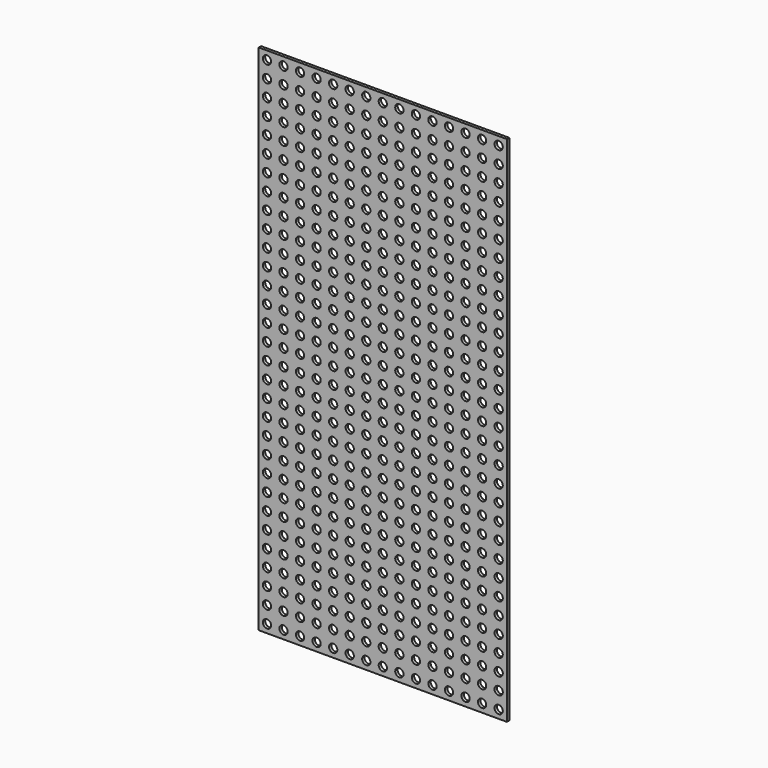
from build123d import *

# Parameters (mm, degrees)
F0_W     = 190.5
F0_H     = 393.7
F1_DEPTH = 2.286
F2_R     = 3.175
F3_DEPTH = 2.287


with BuildPart() as f1:
    # F0 (on Front) → F1 (new body)
    with BuildSketch(Plane.XZ):
        Rectangle(F0_W, F0_H)
    extrude(amount=F1_DEPTH)

    # F2 (on face) → F3 (cut, through all)
    with BuildSketch(Plane.XZ.offset(2.286)):
        with Locations((-88.9, 190.5)):
            Circle(F2_R)
        with Locations((-88.9, 177.8)):
            Circle(F2_R)
        with Locations((-76.2, 190.5)):
            Circle(F2_R)
        with Locations((-76.2, 177.8)):
            Circle(F2_R)
        with Locations((-63.5, 190.5)):
            Circle(F2_R)
        with Locations((-63.5, 177.8)):
            Circle(F2_R)
        with Locations((-50.8, 190.5)):
            Circle(F2_R)
        with Locations((-50.8, 177.8)):
            Circle(F2_R)
        with Locations((-38.1, 190.5)):
            Circle(F2_R)
        with Locations((-38.1, 177.8)):
            Circle(F2_R)
        with Locations((-25.4, 190.5)):
            Circle(F2_R)
        with Locations((-25.4, 177.8)):
            Circle(F2_R)
        with Locations((-12.7, 190.5)):
            Circle(F2_R)
        with Locations((-12.7, 177.8)):
            Circle(F2_R)
        with Locations((0, 190.5)):
            Circle(F2_R)
        with Locations((0, 177.8)):
            Circle(F2_R)
        with Locations((12.7, 190.5)):
            Circle(F2_R)
        with Locations((12.7, 177.8)):
            Circle(F2_R)
        with Locations((25.4, 190.5)):
            Circle(F2_R)
        with Locations((25.4, 177.8)):
            Circle(F2_R)
        with Locations((38.1, 190.5)):
            Circle(F2_R)
        with Locations((38.1, 177.8)):
            Circle(F2_R)
        with Locations((50.8, 190.5)):
            Circle(F2_R)
        with Locations((50.8, 177.8)):
            Circle(F2_R)
        with Locations((63.5, 190.5)):
            Circle(F2_R)
        with Locations((63.5, 177.8)):
            Circle(F2_R)
        with Locations((76.2, 190.5)):
            Circle(F2_R)
        with Locations((76.2, 177.8)):
            Circle(F2_R)
        with Locations((-88.9, 165.1)):
            Circle(F2_R)
        with Locations((-88.9, 152.4)):
            Circle(F2_R)
        with Locations((-88.9, 139.7)):
            Circle(F2_R)
        with Locations((-88.9, 127)):
            Circle(F2_R)
        with Locations((-88.9, 114.3)):
            Circle(F2_R)
        with Locations((-88.9, 101.6)):
            Circle(F2_R)
        with Locations((-88.9, 88.9)):
            Circle(F2_R)
        with Locations((-88.9, 76.2)):
            Circle(F2_R)
        with Locations((-88.9, 63.5)):
            Circle(F2_R)
        with Locations((-88.9, 50.8)):
            Circle(F2_R)
        with Locations((-88.9, 38.1)):
            Circle(F2_R)
        with Locations((-88.9, 25.4)):
            Circle(F2_R)
        with Locations((-88.9, 12.7)):
            Circle(F2_R)
        with Locations((-88.9, 0)):
            Circle(F2_R)
        with Locations((-88.9, -12.7)):
            Circle(F2_R)
        with Locations((-88.9, -25.4)):
            Circle(F2_R)
        with Locations((-88.9, -38.1)):
            Circle(F2_R)
        with Locations((-88.9, -50.8)):
            Circle(F2_R)
        with Locations((-88.9, -63.5)):
            Circle(F2_R)
        with Locations((-88.9, -76.2)):
            Circle(F2_R)
        with Locations((-88.9, -88.9)):
            Circle(F2_R)
        with Locations((-88.9, -101.6)):
            Circle(F2_R)
        with Locations((-88.9, -114.3)):
            Circle(F2_R)
        with Locations((-88.9, -127)):
            Circle(F2_R)
        with Locations((-88.9, -139.7)):
            Circle(F2_R)
        with Locations((-88.9, -152.4)):
            Circle(F2_R)
        with Locations((-88.9, -165.1)):
            Circle(F2_R)
        with Locations((-88.9, -177.8)):
            Circle(F2_R)
        with Locations((-76.2, 165.1)):
            Circle(F2_R)
        with Locations((-76.2, 152.4)):
            Circle(F2_R)
        with Locations((-76.2, 139.7)):
            Circle(F2_R)
        with Locations((-76.2, 127)):
            Circle(F2_R)
        with Locations((-76.2, 114.3)):
            Circle(F2_R)
        with Locations((-76.2, 101.6)):
            Circle(F2_R)
        with Locations((-76.2, 88.9)):
            Circle(F2_R)
        with Locations((-76.2, 76.2)):
            Circle(F2_R)
        with Locations((-76.2, 63.5)):
            Circle(F2_R)
        with Locations((-76.2, 50.8)):
            Circle(F2_R)
        with Locations((-76.2, 38.1)):
            Circle(F2_R)
        with Locations((-76.2, 25.4)):
            Circle(F2_R)
        with Locations((-76.2, 12.7)):
            Circle(F2_R)
        with Locations((-76.2, 0)):
            Circle(F2_R)
        with Locations((-76.2, -12.7)):
            Circle(F2_R)
        with Locations((-76.2, -25.4)):
            Circle(F2_R)
        with Locations((-76.2, -38.1)):
            Circle(F2_R)
        with Locations((-76.2, -50.8)):
            Circle(F2_R)
        with Locations((-76.2, -63.5)):
            Circle(F2_R)
        with Locations((-76.2, -76.2)):
            Circle(F2_R)
        with Locations((-76.2, -88.9)):
            Circle(F2_R)
        with Locations((-76.2, -101.6)):
            Circle(F2_R)
        with Locations((-76.2, -114.3)):
            Circle(F2_R)
        with Locations((-76.2, -127)):
            Circle(F2_R)
        with Locations((-76.2, -139.7)):
            Circle(F2_R)
        with Locations((-76.2, -152.4)):
            Circle(F2_R)
        with Locations((-76.2, -165.1)):
            Circle(F2_R)
        with Locations((-76.2, -177.8)):
            Circle(F2_R)
        with Locations((-63.5, 165.1)):
            Circle(F2_R)
        with Locations((-63.5, 152.4)):
            Circle(F2_R)
        with Locations((-63.5, 139.7)):
            Circle(F2_R)
        with Locations((-63.5, 127)):
            Circle(F2_R)
        with Locations((-63.5, 114.3)):
            Circle(F2_R)
        with Locations((-63.5, 101.6)):
            Circle(F2_R)
        with Locations((-63.5, 88.9)):
            Circle(F2_R)
        with Locations((-63.5, 76.2)):
            Circle(F2_R)
        with Locations((-63.5, 63.5)):
            Circle(F2_R)
        with Locations((-63.5, 50.8)):
            Circle(F2_R)
        with Locations((-63.5, 38.1)):
            Circle(F2_R)
        with Locations((-63.5, 25.4)):
            Circle(F2_R)
        with Locations((-63.5, 12.7)):
            Circle(F2_R)
        with Locations((-63.5, 0)):
            Circle(F2_R)
        with Locations((-63.5, -12.7)):
            Circle(F2_R)
        with Locations((-63.5, -25.4)):
            Circle(F2_R)
        with Locations((-63.5, -38.1)):
            Circle(F2_R)
        with Locations((-63.5, -50.8)):
            Circle(F2_R)
        with Locations((-63.5, -63.5)):
            Circle(F2_R)
        with Locations((-63.5, -76.2)):
            Circle(F2_R)
        with Locations((-63.5, -88.9)):
            Circle(F2_R)
        with Locations((-63.5, -101.6)):
            Circle(F2_R)
        with Locations((-63.5, -114.3)):
            Circle(F2_R)
        with Locations((-63.5, -127)):
            Circle(F2_R)
        with Locations((-63.5, -139.7)):
            Circle(F2_R)
        with Locations((-63.5, -152.4)):
            Circle(F2_R)
        with Locations((-63.5, -165.1)):
            Circle(F2_R)
        with Locations((-63.5, -177.8)):
            Circle(F2_R)
        with Locations((-50.8, 165.1)):
            Circle(F2_R)
        with Locations((-50.8, 152.4)):
            Circle(F2_R)
        with Locations((-50.8, 139.7)):
            Circle(F2_R)
        with Locations((-50.8, 127)):
            Circle(F2_R)
        with Locations((-50.8, 114.3)):
            Circle(F2_R)
        with Locations((-50.8, 101.6)):
            Circle(F2_R)
        with Locations((-50.8, 88.9)):
            Circle(F2_R)
        with Locations((-50.8, 76.2)):
            Circle(F2_R)
        with Locations((-50.8, 63.5)):
            Circle(F2_R)
        with Locations((-50.8, 50.8)):
            Circle(F2_R)
        with Locations((-50.8, 38.1)):
            Circle(F2_R)
        with Locations((-50.8, 25.4)):
            Circle(F2_R)
        with Locations((-50.8, 12.7)):
            Circle(F2_R)
        with Locations((-50.8, 0)):
            Circle(F2_R)
        with Locations((-50.8, -12.7)):
            Circle(F2_R)
        with Locations((-50.8, -25.4)):
            Circle(F2_R)
        with Locations((-50.8, -38.1)):
            Circle(F2_R)
        with Locations((-50.8, -50.8)):
            Circle(F2_R)
        with Locations((-50.8, -63.5)):
            Circle(F2_R)
        with Locations((-50.8, -76.2)):
            Circle(F2_R)
        with Locations((-50.8, -88.9)):
            Circle(F2_R)
        with Locations((-50.8, -101.6)):
            Circle(F2_R)
        with Locations((-50.8, -114.3)):
            Circle(F2_R)
        with Locations((-50.8, -127)):
            Circle(F2_R)
        with Locations((-50.8, -139.7)):
            Circle(F2_R)
        with Locations((-50.8, -152.4)):
            Circle(F2_R)
        with Locations((-50.8, -165.1)):
            Circle(F2_R)
        with Locations((-50.8, -177.8)):
            Circle(F2_R)
        with Locations((-38.1, 165.1)):
            Circle(F2_R)
        with Locations((-38.1, 152.4)):
            Circle(F2_R)
        with Locations((-38.1, 139.7)):
            Circle(F2_R)
        with Locations((-38.1, 127)):
            Circle(F2_R)
        with Locations((-38.1, 114.3)):
            Circle(F2_R)
        with Locations((-38.1, 101.6)):
            Circle(F2_R)
        with Locations((-38.1, 88.9)):
            Circle(F2_R)
        with Locations((-38.1, 76.2)):
            Circle(F2_R)
        with Locations((-38.1, 63.5)):
            Circle(F2_R)
        with Locations((-38.1, 50.8)):
            Circle(F2_R)
        with Locations((-38.1, 38.1)):
            Circle(F2_R)
        with Locations((-38.1, 25.4)):
            Circle(F2_R)
        with Locations((-38.1, 12.7)):
            Circle(F2_R)
        with Locations((-38.1, 0)):
            Circle(F2_R)
        with Locations((-38.1, -12.7)):
            Circle(F2_R)
        with Locations((-38.1, -25.4)):
            Circle(F2_R)
        with Locations((-38.1, -38.1)):
            Circle(F2_R)
        with Locations((-38.1, -50.8)):
            Circle(F2_R)
        with Locations((-38.1, -63.5)):
            Circle(F2_R)
        with Locations((-38.1, -76.2)):
            Circle(F2_R)
        with Locations((-38.1, -88.9)):
            Circle(F2_R)
        with Locations((-38.1, -101.6)):
            Circle(F2_R)
        with Locations((-38.1, -114.3)):
            Circle(F2_R)
        with Locations((-38.1, -127)):
            Circle(F2_R)
        with Locations((-38.1, -139.7)):
            Circle(F2_R)
        with Locations((-38.1, -152.4)):
            Circle(F2_R)
        with Locations((-38.1, -165.1)):
            Circle(F2_R)
        with Locations((-38.1, -177.8)):
            Circle(F2_R)
        with Locations((-25.4, 165.1)):
            Circle(F2_R)
        with Locations((-25.4, 152.4)):
            Circle(F2_R)
        with Locations((-25.4, 139.7)):
            Circle(F2_R)
        with Locations((-25.4, 127)):
            Circle(F2_R)
        with Locations((-25.4, 114.3)):
            Circle(F2_R)
        with Locations((-25.4, 101.6)):
            Circle(F2_R)
        with Locations((-25.4, 88.9)):
            Circle(F2_R)
        with Locations((-25.4, 76.2)):
            Circle(F2_R)
        with Locations((-25.4, 63.5)):
            Circle(F2_R)
        with Locations((-25.4, 50.8)):
            Circle(F2_R)
        with Locations((-25.4, 38.1)):
            Circle(F2_R)
        with Locations((-25.4, 25.4)):
            Circle(F2_R)
        with Locations((-25.4, 12.7)):
            Circle(F2_R)
        with Locations((-25.4, 0)):
            Circle(F2_R)
        with Locations((-25.4, -12.7)):
            Circle(F2_R)
        with Locations((-25.4, -25.4)):
            Circle(F2_R)
        with Locations((-25.4, -38.1)):
            Circle(F2_R)
        with Locations((-25.4, -50.8)):
            Circle(F2_R)
        with Locations((-25.4, -63.5)):
            Circle(F2_R)
        with Locations((-25.4, -76.2)):
            Circle(F2_R)
        with Locations((-25.4, -88.9)):
            Circle(F2_R)
        with Locations((-25.4, -101.6)):
            Circle(F2_R)
        with Locations((-25.4, -114.3)):
            Circle(F2_R)
        with Locations((-25.4, -127)):
            Circle(F2_R)
        with Locations((-25.4, -139.7)):
            Circle(F2_R)
        with Locations((-25.4, -152.4)):
            Circle(F2_R)
        with Locations((-25.4, -165.1)):
            Circle(F2_R)
        with Locations((-25.4, -177.8)):
            Circle(F2_R)
        with Locations((-12.7, 165.1)):
            Circle(F2_R)
        with Locations((-12.7, 152.4)):
            Circle(F2_R)
        with Locations((-12.7, 139.7)):
            Circle(F2_R)
        with Locations((-12.7, 127)):
            Circle(F2_R)
        with Locations((-12.7, 114.3)):
            Circle(F2_R)
        with Locations((-12.7, 101.6)):
            Circle(F2_R)
        with Locations((-12.7, 88.9)):
            Circle(F2_R)
        with Locations((-12.7, 76.2)):
            Circle(F2_R)
        with Locations((-12.7, 63.5)):
            Circle(F2_R)
        with Locations((-12.7, 50.8)):
            Circle(F2_R)
        with Locations((-12.7, 38.1)):
            Circle(F2_R)
        with Locations((-12.7, 25.4)):
            Circle(F2_R)
        with Locations((-12.7, 12.7)):
            Circle(F2_R)
        with Locations((-12.7, 0)):
            Circle(F2_R)
        with Locations((-12.7, -12.7)):
            Circle(F2_R)
        with Locations((-12.7, -25.4)):
            Circle(F2_R)
        with Locations((-12.7, -38.1)):
            Circle(F2_R)
        with Locations((-12.7, -50.8)):
            Circle(F2_R)
        with Locations((-12.7, -63.5)):
            Circle(F2_R)
        with Locations((-12.7, -76.2)):
            Circle(F2_R)
        with Locations((-12.7, -88.9)):
            Circle(F2_R)
        with Locations((-12.7, -101.6)):
            Circle(F2_R)
        with Locations((-12.7, -114.3)):
            Circle(F2_R)
        with Locations((-12.7, -127)):
            Circle(F2_R)
        with Locations((-12.7, -139.7)):
            Circle(F2_R)
        with Locations((-12.7, -152.4)):
            Circle(F2_R)
        with Locations((-12.7, -165.1)):
            Circle(F2_R)
        with Locations((-12.7, -177.8)):
            Circle(F2_R)
        with Locations((0, 165.1)):
            Circle(F2_R)
        with Locations((0, 152.4)):
            Circle(F2_R)
        with Locations((0, 139.7)):
            Circle(F2_R)
        with Locations((0, 127)):
            Circle(F2_R)
        with Locations((0, 114.3)):
            Circle(F2_R)
        with Locations((0, 101.6)):
            Circle(F2_R)
        with Locations((0, 88.9)):
            Circle(F2_R)
        with Locations((0, 76.2)):
            Circle(F2_R)
        with Locations((0, 63.5)):
            Circle(F2_R)
        with Locations((0, 50.8)):
            Circle(F2_R)
        with Locations((0, 38.1)):
            Circle(F2_R)
        with Locations((0, 25.4)):
            Circle(F2_R)
        with Locations((0, 12.7)):
            Circle(F2_R)
        Circle(F2_R)
        with Locations((0, -12.7)):
            Circle(F2_R)
        with Locations((0, -25.4)):
            Circle(F2_R)
        with Locations((0, -38.1)):
            Circle(F2_R)
        with Locations((0, -50.8)):
            Circle(F2_R)
        with Locations((0, -63.5)):
            Circle(F2_R)
        with Locations((0, -76.2)):
            Circle(F2_R)
        with Locations((0, -88.9)):
            Circle(F2_R)
        with Locations((0, -101.6)):
            Circle(F2_R)
        with Locations((0, -114.3)):
            Circle(F2_R)
        with Locations((0, -127)):
            Circle(F2_R)
        with Locations((0, -139.7)):
            Circle(F2_R)
        with Locations((0, -152.4)):
            Circle(F2_R)
        with Locations((0, -165.1)):
            Circle(F2_R)
        with Locations((0, -177.8)):
            Circle(F2_R)
        with Locations((12.7, 165.1)):
            Circle(F2_R)
        with Locations((12.7, 152.4)):
            Circle(F2_R)
        with Locations((12.7, 139.7)):
            Circle(F2_R)
        with Locations((12.7, 127)):
            Circle(F2_R)
        with Locations((12.7, 114.3)):
            Circle(F2_R)
        with Locations((12.7, 101.6)):
            Circle(F2_R)
        with Locations((12.7, 88.9)):
            Circle(F2_R)
        with Locations((12.7, 76.2)):
            Circle(F2_R)
        with Locations((12.7, 63.5)):
            Circle(F2_R)
        with Locations((12.7, 50.8)):
            Circle(F2_R)
        with Locations((12.7, 38.1)):
            Circle(F2_R)
        with Locations((12.7, 25.4)):
            Circle(F2_R)
        with Locations((12.7, 12.7)):
            Circle(F2_R)
        with Locations((12.7, 0)):
            Circle(F2_R)
        with Locations((12.7, -12.7)):
            Circle(F2_R)
        with Locations((12.7, -25.4)):
            Circle(F2_R)
        with Locations((12.7, -38.1)):
            Circle(F2_R)
        with Locations((12.7, -50.8)):
            Circle(F2_R)
        with Locations((12.7, -63.5)):
            Circle(F2_R)
        with Locations((12.7, -76.2)):
            Circle(F2_R)
        with Locations((12.7, -88.9)):
            Circle(F2_R)
        with Locations((12.7, -101.6)):
            Circle(F2_R)
        with Locations((12.7, -114.3)):
            Circle(F2_R)
        with Locations((12.7, -127)):
            Circle(F2_R)
        with Locations((12.7, -139.7)):
            Circle(F2_R)
        with Locations((12.7, -152.4)):
            Circle(F2_R)
        with Locations((12.7, -165.1)):
            Circle(F2_R)
        with Locations((12.7, -177.8)):
            Circle(F2_R)
        with Locations((25.4, 165.1)):
            Circle(F2_R)
        with Locations((25.4, 152.4)):
            Circle(F2_R)
        with Locations((25.4, 139.7)):
            Circle(F2_R)
        with Locations((25.4, 127)):
            Circle(F2_R)
        with Locations((25.4, 114.3)):
            Circle(F2_R)
        with Locations((25.4, 101.6)):
            Circle(F2_R)
        with Locations((25.4, 88.9)):
            Circle(F2_R)
        with Locations((25.4, 76.2)):
            Circle(F2_R)
        with Locations((25.4, 63.5)):
            Circle(F2_R)
        with Locations((25.4, 50.8)):
            Circle(F2_R)
        with Locations((25.4, 38.1)):
            Circle(F2_R)
        with Locations((25.4, 25.4)):
            Circle(F2_R)
        with Locations((25.4, 12.7)):
            Circle(F2_R)
        with Locations((25.4, 0)):
            Circle(F2_R)
        with Locations((25.4, -12.7)):
            Circle(F2_R)
        with Locations((25.4, -25.4)):
            Circle(F2_R)
        with Locations((25.4, -38.1)):
            Circle(F2_R)
        with Locations((25.4, -50.8)):
            Circle(F2_R)
        with Locations((25.4, -63.5)):
            Circle(F2_R)
        with Locations((25.4, -76.2)):
            Circle(F2_R)
        with Locations((25.4, -88.9)):
            Circle(F2_R)
        with Locations((25.4, -101.6)):
            Circle(F2_R)
        with Locations((25.4, -114.3)):
            Circle(F2_R)
        with Locations((25.4, -127)):
            Circle(F2_R)
        with Locations((25.4, -139.7)):
            Circle(F2_R)
        with Locations((25.4, -152.4)):
            Circle(F2_R)
        with Locations((25.4, -165.1)):
            Circle(F2_R)
        with Locations((25.4, -177.8)):
            Circle(F2_R)
        with Locations((38.1, 165.1)):
            Circle(F2_R)
        with Locations((38.1, 152.4)):
            Circle(F2_R)
        with Locations((38.1, 139.7)):
            Circle(F2_R)
        with Locations((38.1, 127)):
            Circle(F2_R)
        with Locations((38.1, 114.3)):
            Circle(F2_R)
        with Locations((38.1, 101.6)):
            Circle(F2_R)
        with Locations((38.1, 88.9)):
            Circle(F2_R)
        with Locations((38.1, 76.2)):
            Circle(F2_R)
        with Locations((38.1, 63.5)):
            Circle(F2_R)
        with Locations((38.1, 50.8)):
            Circle(F2_R)
        with Locations((38.1, 38.1)):
            Circle(F2_R)
        with Locations((38.1, 25.4)):
            Circle(F2_R)
        with Locations((38.1, 12.7)):
            Circle(F2_R)
        with Locations((38.1, 0)):
            Circle(F2_R)
        with Locations((38.1, -12.7)):
            Circle(F2_R)
        with Locations((38.1, -25.4)):
            Circle(F2_R)
        with Locations((38.1, -38.1)):
            Circle(F2_R)
        with Locations((38.1, -50.8)):
            Circle(F2_R)
        with Locations((38.1, -63.5)):
            Circle(F2_R)
        with Locations((38.1, -76.2)):
            Circle(F2_R)
        with Locations((38.1, -88.9)):
            Circle(F2_R)
        with Locations((38.1, -101.6)):
            Circle(F2_R)
        with Locations((38.1, -114.3)):
            Circle(F2_R)
        with Locations((38.1, -127)):
            Circle(F2_R)
        with Locations((38.1, -139.7)):
            Circle(F2_R)
        with Locations((38.1, -152.4)):
            Circle(F2_R)
        with Locations((38.1, -165.1)):
            Circle(F2_R)
        with Locations((38.1, -177.8)):
            Circle(F2_R)
        with Locations((50.8, 165.1)):
            Circle(F2_R)
        with Locations((50.8, 152.4)):
            Circle(F2_R)
        with Locations((50.8, 139.7)):
            Circle(F2_R)
        with Locations((50.8, 127)):
            Circle(F2_R)
        with Locations((50.8, 114.3)):
            Circle(F2_R)
        with Locations((50.8, 101.6)):
            Circle(F2_R)
        with Locations((50.8, 88.9)):
            Circle(F2_R)
        with Locations((50.8, 76.2)):
            Circle(F2_R)
        with Locations((50.8, 63.5)):
            Circle(F2_R)
        with Locations((50.8, 50.8)):
            Circle(F2_R)
        with Locations((50.8, 38.1)):
            Circle(F2_R)
        with Locations((50.8, 25.4)):
            Circle(F2_R)
        with Locations((50.8, 12.7)):
            Circle(F2_R)
        with Locations((50.8, 0)):
            Circle(F2_R)
        with Locations((50.8, -12.7)):
            Circle(F2_R)
        with Locations((50.8, -25.4)):
            Circle(F2_R)
        with Locations((50.8, -38.1)):
            Circle(F2_R)
        with Locations((50.8, -50.8)):
            Circle(F2_R)
        with Locations((50.8, -63.5)):
            Circle(F2_R)
        with Locations((50.8, -76.2)):
            Circle(F2_R)
        with Locations((50.8, -88.9)):
            Circle(F2_R)
        with Locations((50.8, -101.6)):
            Circle(F2_R)
        with Locations((50.8, -114.3)):
            Circle(F2_R)
        with Locations((50.8, -127)):
            Circle(F2_R)
        with Locations((50.8, -139.7)):
            Circle(F2_R)
        with Locations((50.8, -152.4)):
            Circle(F2_R)
        with Locations((50.8, -165.1)):
            Circle(F2_R)
        with Locations((50.8, -177.8)):
            Circle(F2_R)
        with Locations((63.5, 165.1)):
            Circle(F2_R)
        with Locations((63.5, 152.4)):
            Circle(F2_R)
        with Locations((63.5, 139.7)):
            Circle(F2_R)
        with Locations((63.5, 127)):
            Circle(F2_R)
        with Locations((63.5, 114.3)):
            Circle(F2_R)
        with Locations((63.5, 101.6)):
            Circle(F2_R)
        with Locations((63.5, 88.9)):
            Circle(F2_R)
        with Locations((63.5, 76.2)):
            Circle(F2_R)
        with Locations((63.5, 63.5)):
            Circle(F2_R)
        with Locations((63.5, 50.8)):
            Circle(F2_R)
        with Locations((63.5, 38.1)):
            Circle(F2_R)
        with Locations((63.5, 25.4)):
            Circle(F2_R)
        with Locations((63.5, 12.7)):
            Circle(F2_R)
        with Locations((63.5, 0)):
            Circle(F2_R)
        with Locations((63.5, -12.7)):
            Circle(F2_R)
        with Locations((63.5, -25.4)):
            Circle(F2_R)
        with Locations((63.5, -38.1)):
            Circle(F2_R)
        with Locations((63.5, -50.8)):
            Circle(F2_R)
        with Locations((63.5, -63.5)):
            Circle(F2_R)
        with Locations((63.5, -76.2)):
            Circle(F2_R)
        with Locations((63.5, -88.9)):
            Circle(F2_R)
        with Locations((63.5, -101.6)):
            Circle(F2_R)
        with Locations((63.5, -114.3)):
            Circle(F2_R)
        with Locations((63.5, -127)):
            Circle(F2_R)
        with Locations((63.5, -139.7)):
            Circle(F2_R)
        with Locations((63.5, -152.4)):
            Circle(F2_R)
        with Locations((63.5, -165.1)):
            Circle(F2_R)
        with Locations((63.5, -177.8)):
            Circle(F2_R)
        with Locations((76.2, 165.1)):
            Circle(F2_R)
        with Locations((76.2, 152.4)):
            Circle(F2_R)
        with Locations((76.2, 139.7)):
            Circle(F2_R)
        with Locations((76.2, 127)):
            Circle(F2_R)
        with Locations((76.2, 114.3)):
            Circle(F2_R)
        with Locations((76.2, 101.6)):
            Circle(F2_R)
        with Locations((76.2, 88.9)):
            Circle(F2_R)
        with Locations((76.2, 76.2)):
            Circle(F2_R)
        with Locations((76.2, 63.5)):
            Circle(F2_R)
        with Locations((76.2, 50.8)):
            Circle(F2_R)
        with Locations((76.2, 38.1)):
            Circle(F2_R)
        with Locations((76.2, 25.4)):
            Circle(F2_R)
        with Locations((76.2, 12.7)):
            Circle(F2_R)
        with Locations((76.2, 0)):
            Circle(F2_R)
        with Locations((76.2, -12.7)):
            Circle(F2_R)
        with Locations((76.2, -25.4)):
            Circle(F2_R)
        with Locations((76.2, -38.1)):
            Circle(F2_R)
        with Locations((76.2, -50.8)):
            Circle(F2_R)
        with Locations((76.2, -63.5)):
            Circle(F2_R)
        with Locations((76.2, -76.2)):
            Circle(F2_R)
        with Locations((76.2, -88.9)):
            Circle(F2_R)
        with Locations((76.2, -101.6)):
            Circle(F2_R)
        with Locations((76.2, -114.3)):
            Circle(F2_R)
        with Locations((76.2, -127)):
            Circle(F2_R)
        with Locations((76.2, -139.7)):
            Circle(F2_R)
        with Locations((76.2, -152.4)):
            Circle(F2_R)
        with Locations((76.2, -165.1)):
            Circle(F2_R)
        with Locations((76.2, -177.8)):
            Circle(F2_R)
        with Locations((88.9, 190.5)):
            Circle(F2_R)
        with Locations((88.9, 177.8)):
            Circle(F2_R)
        with Locations((88.9, 165.1)):
            Circle(F2_R)
        with Locations((88.9, 152.4)):
            Circle(F2_R)
        with Locations((88.9, 139.7)):
            Circle(F2_R)
        with Locations((88.9, 127)):
            Circle(F2_R)
        with Locations((88.9, 114.3)):
            Circle(F2_R)
        with Locations((88.9, 101.6)):
            Circle(F2_R)
        with Locations((88.9, 88.9)):
            Circle(F2_R)
        with Locations((88.9, 76.2)):
            Circle(F2_R)
        with Locations((88.9, 63.5)):
            Circle(F2_R)
        with Locations((88.9, 50.8)):
            Circle(F2_R)
        with Locations((88.9, 38.1)):
            Circle(F2_R)
        with Locations((88.9, 25.4)):
            Circle(F2_R)
        with Locations((88.9, 12.7)):
            Circle(F2_R)
        with Locations((88.9, 0)):
            Circle(F2_R)
        with Locations((88.9, -12.7)):
            Circle(F2_R)
        with Locations((88.9, -25.4)):
            Circle(F2_R)
        with Locations((88.9, -38.1)):
            Circle(F2_R)
        with Locations((88.9, -50.8)):
            Circle(F2_R)
        with Locations((88.9, -63.5)):
            Circle(F2_R)
        with Locations((88.9, -76.2)):
            Circle(F2_R)
        with Locations((88.9, -88.9)):
            Circle(F2_R)
        with Locations((88.9, -101.6)):
            Circle(F2_R)
        with Locations((88.9, -114.3)):
            Circle(F2_R)
        with Locations((88.9, -127)):
            Circle(F2_R)
        with Locations((88.9, -139.7)):
            Circle(F2_R)
        with Locations((88.9, -152.4)):
            Circle(F2_R)
        with Locations((88.9, -165.1)):
            Circle(F2_R)
        with Locations((88.9, -177.8)):
            Circle(F2_R)
        with Locations((-88.9, -190.5)):
            Circle(F2_R)
        with Locations((-76.2, -190.5)):
            Circle(F2_R)
        with Locations((-63.5, -190.5)):
            Circle(F2_R)
        with Locations((-50.8, -190.5)):
            Circle(F2_R)
        with Locations((-38.1, -190.5)):
            Circle(F2_R)
        with Locations((-25.4, -190.5)):
            Circle(F2_R)
        with Locations((-12.7, -190.5)):
            Circle(F2_R)
        with Locations((0, -190.5)):
            Circle(F2_R)
        with Locations((12.7, -190.5)):
            Circle(F2_R)
        with Locations((25.4, -190.5)):
            Circle(F2_R)
        with Locations((38.1, -190.5)):
            Circle(F2_R)
        with Locations((50.8, -190.5)):
            Circle(F2_R)
        with Locations((63.5, -190.5)):
            Circle(F2_R)
        with Locations((76.2, -190.5)):
            Circle(F2_R)
        with Locations((88.9, -190.5)):
            Circle(F2_R)
    extrude(amount=-F3_DEPTH, mode=Mode.SUBTRACT)


solid = f1.part
